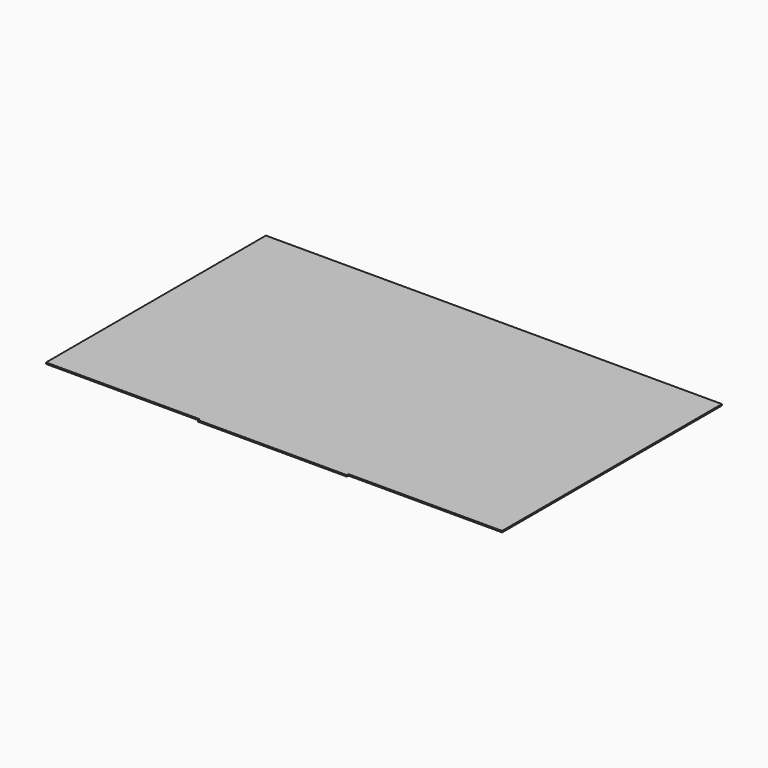
from build123d import *

# Parameters (mm, degrees)
SKETCH_W     = 329.5
SKETCH_H     = 200
PAD_DEPTH    = 1
SKETCH001_W  = 111
SKETCH001_H  = 1.5
POCKET_DEPTH = 1.001


with BuildPart() as part:
    # Sketch → Pad (new body)
    with BuildSketch(Plane.XY):
        with Locations((164.75, 100)):
            Rectangle(SKETCH_W, SKETCH_H)
    extrude(amount=PAD_DEPTH)

    # Sketch001 (on Face6 of Pad) → Pocket (cut, through all)
    with BuildSketch(Plane.XY.offset(1)):
        with Locations((55.5, 0.75)):
            Rectangle(SKETCH001_W, SKETCH001_H)
        with Locations((274, 0.75)):
            Rectangle(SKETCH001_W, SKETCH001_H)
    extrude(amount=-POCKET_DEPTH, mode=Mode.SUBTRACT)


solid = part.part
